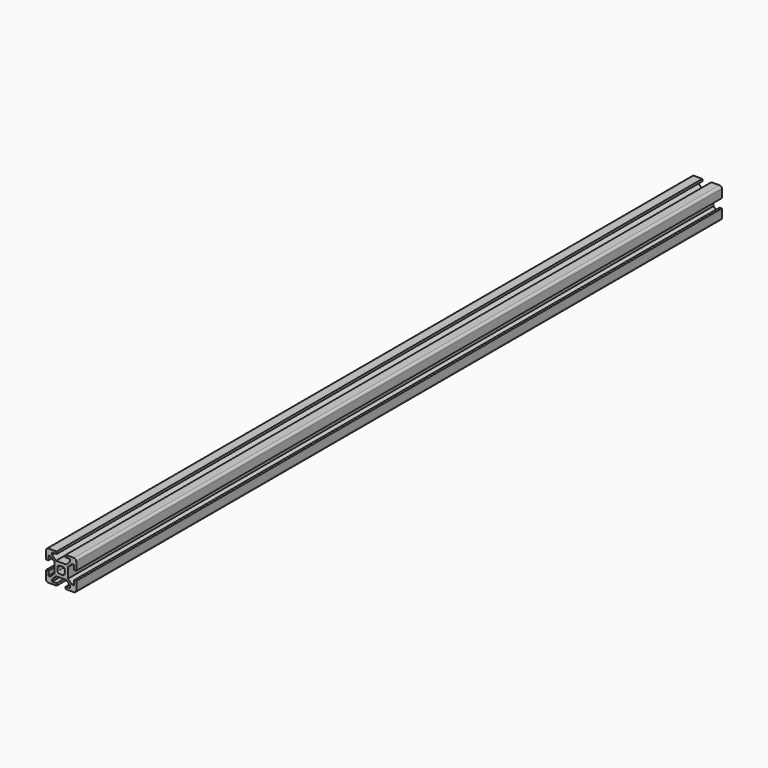
from build123d import *

# Parameters (mm, degrees)
F1_DEPTH = 535


with BuildPart() as f1:
    # F0 (on Front) → F1 (new body)
    with BuildSketch(Plane.XZ):
        with BuildLine():
            Line((3, -10), (8.5, -10))
            ThreePointArc((8.5, -10), (9.5606601718, -9.5606601718), (10, -8.5))
            Line((10, -8.5), (10, -3))
            Line((10, -3), (8.5, -3))
            Line((8.5, -3), (8.5, -6))
            Line((8.5, -6), (7.0606601718, -6))
            Line((7.0606601718, -6), (4.5, -3.4393398282))
            Line((4.5, -3.4393398282), (4.5, 3.4393398282))
            Line((4.5, 3.4393398282), (7.0606601718, 6))
            Line((7.0606601718, 6), (8.5, 6))
            Line((8.5, 6), (8.5, 3))
            Line((8.5, 3), (10, 3))
            Line((10, 3), (10, 8.5))
            ThreePointArc((10, 8.5), (9.5606601718, 9.5606601718), (8.5, 10))
            Line((8.5, 10), (3, 10))
            Line((3, 10), (3, 8.5))
            Line((3, 8.5), (6, 8.5))
            Line((6, 8.5), (6, 7.0606601718))
            Line((6, 7.0606601718), (3.4393398282, 4.5))
            Line((3.4393398282, 4.5), (-3.4393398282, 4.5))
            Line((-3.4393398282, 4.5), (-6, 7.0606601718))
            Line((-6, 7.0606601718), (-6, 8.5))
            Line((-6, 8.5), (-3, 8.5))
            Line((-3, 8.5), (-3, 10))
            Line((-3, 10), (-8.5, 10))
            ThreePointArc((-8.5, 10), (-9.5606601718, 9.5606601718), (-10, 8.5))
            Line((-10, 8.5), (-10, 3))
            Line((-10, 3), (-8.5, 3))
            Line((-8.5, 3), (-8.5, 6))
            Line((-8.5, 6), (-7.0606601718, 6))
            Line((-7.0606601718, 6), (-4.5, 3.4393398282))
            Line((-4.5, 3.4393398282), (-4.5, -3.4393398282))
            Line((-4.5, -3.4393398282), (-7.0606601718, -6))
            Line((-7.0606601718, -6), (-8.5, -6))
            Line((-8.5, -6), (-8.5, -3))
            Line((-8.5, -3), (-10, -3))
            Line((-10, -3), (-10, -8.5))
            ThreePointArc((-10, -8.5), (-9.5606601718, -9.5606601718), (-8.5, -10))
            Line((-8.5, -10), (-3, -10))
            Line((-3, -10), (-3, -8.5))
            Line((-3, -8.5), (-6, -8.5))
            Line((-6, -8.5), (-6, -7.0606601718))
            Line((-6, -7.0606601718), (-3.4393398282, -4.5))
            Line((-3.4393398282, -4.5), (3.4393398282, -4.5))
            Line((3.4393398282, -4.5), (6, -7.0606601718))
            Line((6, -7.0606601718), (6, -8.5))
            Line((6, -8.5), (3, -8.5))
            Line((3, -8.5), (3, -10))
        make_face()
        with BuildLine():
            ThreePointArc((-1.1560121095, 2.2166722813), (0, 2.5), (1.1560121095, 2.2166722813))
            Line((1.1560121095, 2.2166722813), (1.4393398282, 2.5))
            Line((1.4393398282, 2.5), (2.5, 1.4393398282))
            Line((2.5, 1.4393398282), (2.2166722813, 1.1560121095))
            ThreePointArc((2.2166722813, 1.1560121095), (2.5, 0), (2.2166722813, -1.1560121095))
            Line((2.2166722813, -1.1560121095), (2.5, -1.4393398282))
            Line((2.5, -1.4393398282), (1.4393398282, -2.5))
            Line((1.4393398282, -2.5), (1.1560121095, -2.2166722813))
            ThreePointArc((1.1560121095, -2.2166722813), (0, -2.5), (-1.1560121095, -2.2166722813))
            Line((-1.1560121095, -2.2166722813), (-1.4393398282, -2.5))
            Line((-1.4393398282, -2.5), (-2.5, -1.4393398282))
            Line((-2.5, -1.4393398282), (-2.2166722813, -1.1560121095))
            ThreePointArc((-2.2166722813, -1.1560121095), (-2.5, 0), (-2.2166722813, 1.1560121095))
            Line((-2.2166722813, 1.1560121095), (-2.5, 1.4393398282))
            Line((-2.5, 1.4393398282), (-1.4393398282, 2.5))
            Line((-1.4393398282, 2.5), (-1.1560121095, 2.2166722813))
        make_face(mode=Mode.SUBTRACT)
    extrude(amount=F1_DEPTH)


solid = f1.part
